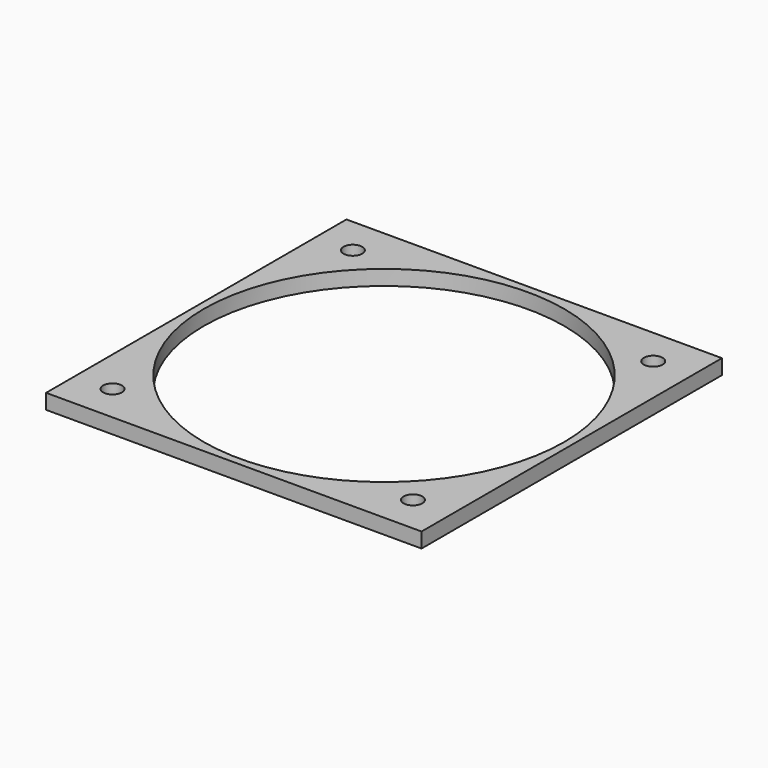
from build123d import *

# Parameters (mm, degrees)
F0_W     = 50
F0_H     = 50
F0_R     = 1.25
F0_R_2   = 24
F1_DEPTH = 2


with BuildPart() as f1:
    # F0 (on Top) → F1 (new body)
    with BuildSketch(Plane.XY):
        with Locations((-25, 25)):
            Rectangle(F0_W, F0_H)
        with Locations((-45.146511, 5)):
            Circle(F0_R, mode=Mode.SUBTRACT)
        with Locations((-5.146511, 5)):
            Circle(F0_R, mode=Mode.SUBTRACT)
        with Locations((-45.146511, 45)):
            Circle(F0_R, mode=Mode.SUBTRACT)
        with Locations((-25, 25)):
            Circle(F0_R_2, mode=Mode.SUBTRACT)
        with Locations((-5.146511, 45)):
            Circle(F0_R, mode=Mode.SUBTRACT)
    extrude(amount=F1_DEPTH)


solid = f1.part
